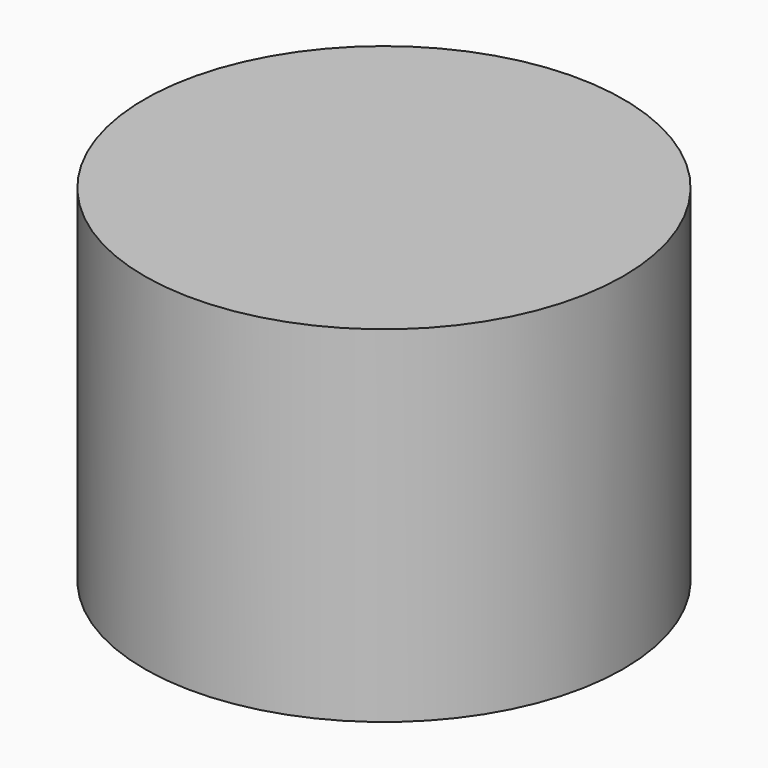
from build123d import *

# Parameters (mm, degrees)
CYLINDER_R     = 10.3886
CYLINDER_DEPTH = 15


with BuildPart() as part:
    # Cylinder → Cylinder (new body)
    with BuildSketch(Plane.XY.offset(-2.5)):
        Circle(CYLINDER_R)
    extrude(amount=CYLINDER_DEPTH)


solid = part.part
